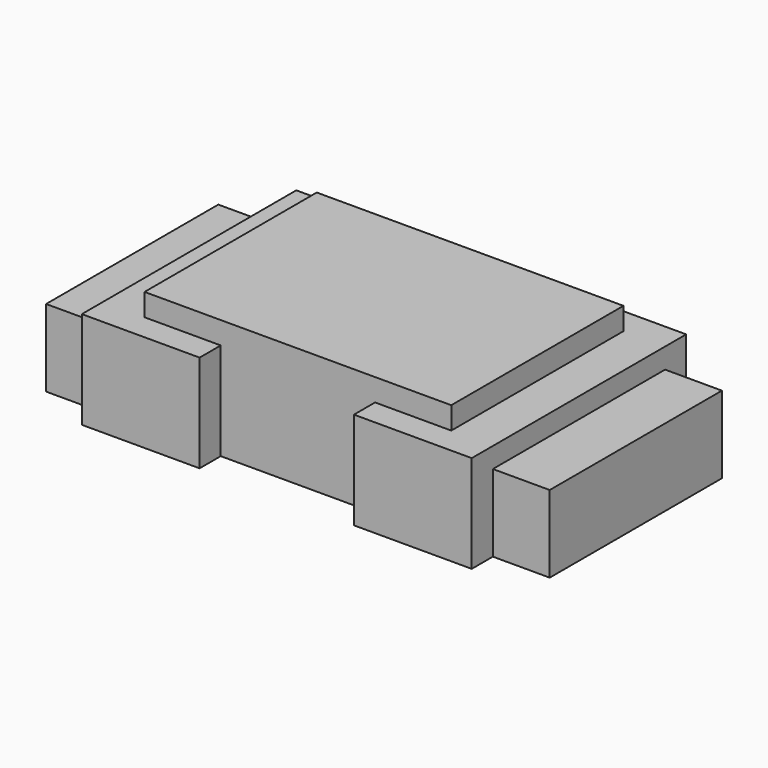
from build123d import *

# Parameters (mm, degrees)
F1_DEPTH   = 48.26
F2_W       = 35.56
F2_H       = 15.24
F3_DEPTH   = 25.4
F4_DEPTH   = 73.66
F5_START   = -73.66
F4_FACE_W  = 15.24
F4_FACE_H  = 25.4
F5_DEPTH   = 78.74
F6_DEPTH   = 22.86
F7_START   = 96.52
F6_FACE_W  = 15.24
F6_FACE_H  = 48.26
F7_DEPTH   = 73.66
F9_W       = 157.48
F9_H       = 67.31
F10_DEPTH  = 48.26
F11_W      = 35.56
F11_H      = 48.26
F12_DEPTH  = 16.51
F13_DEPTH  = 73.66
F14_START  = -73.66
F13_FACE_W = 16.51
F13_FACE_H = 48.26
F14_DEPTH  = 78.74
F18_DEPTH  = 12.7
F19_W      = 35.56
F19_H      = 134.62
F20_DEPTH  = 12.7
F22_DEPTH  = 13.97


with BuildPart() as f1:
    # F0 (on Top) → F1 (new body)
    with BuildSketch(Plane.XY):
        Polygon((0, 134.62), (0, 0), (314.96, 0), (314.96, 134.62), (35.56, 134.62), align=None)
    extrude(amount=F1_DEPTH)

    # F2 (on face) → F3 (join)
    with BuildSketch(Plane.XY.offset(48.26)):
        with Locations((17.78, 142.24)):
            Rectangle(F2_W, F2_H)
    extrude(amount=-F3_DEPTH)

    # F4 (add): a face of the model
    f4_faces = [f1.faces().sort_by_distance(p)[0] for p in [
        (35.56, 142.24, 35.56),
    ]]
    extrude(f4_faces, amount=F4_DEPTH)

    # F4_face (on face) → F5 (cut)
    with BuildSketch(Plane(origin=(109.22, 142.24, 35.56), x_dir=(0, 1, 0), z_dir=(1, 0, 0)).offset(F5_START)):
        Rectangle(F4_FACE_W, F4_FACE_H)
    extrude(amount=-F5_DEPTH, mode=Mode.SUBTRACT)

    # F6 (add): a face of the model
    f6_faces = [f1.faces().sort_by_distance(p)[0] for p in [
        (72.39, 142.24, 22.86),
    ]]
    extrude(f6_faces, amount=F6_DEPTH)

    # F6_face (on face) → F7 (join)
    with BuildSketch(Plane(origin=(109.22, 142.24, 24.13), x_dir=(0, 1, 0), z_dir=(1, 0, 0)).offset(F7_START)):
        Rectangle(F6_FACE_W, F6_FACE_H)
    extrude(amount=F7_DEPTH)


with BuildPart() as f10:
    # F9 (on Top) → F10 (new body)
    with BuildSketch(Plane.XY):
        with Locations((78.74, 33.655)):
            Rectangle(F9_W, F9_H)
    extrude(amount=F10_DEPTH)

    # F11 (on face) → F12 (join)
    with BuildSketch(Plane(origin=(0, 67.31, 0), x_dir=(-1, 0, 0), z_dir=(0, 1, 0))):
        with Locations((-139.7, 24.13)):
            Rectangle(F11_W, F11_H)
    extrude(amount=F12_DEPTH)

    # F13 (add): a face of the model
    f13_faces = [f10.faces().sort_by_distance(p)[0] for p in [
        (121.92, 75.565, 24.13),
    ]]
    extrude(f13_faces, amount=F13_DEPTH)

    # F13_face (on face) → F14 (cut)
    with BuildSketch(Plane(origin=(48.26, 75.565, 24.13), x_dir=(0, -1, 0), z_dir=(-1, 0, 0)).offset(F14_START)):
        Rectangle(F13_FACE_W, F13_FACE_H)
    extrude(amount=-F14_DEPTH, mode=Mode.SUBTRACT)

    # F15: F10 across plane


with BuildPart() as f10_1:
    add(f10.part)
    add(f10.part.mirror(Plane.XZ))

    # F16: F10 across plane


with BuildPart() as f10_2:
    add(f10_1.part)
    add(f10_1.part.mirror(Plane.YZ))

    # F17 (on face) → F18 (join)
    with BuildSketch(Plane.XY.offset(48.26)):
        Polygon((-121.92, 83.82), (-121.92, 67.31), (-121.92, -67.31), (-121.92, -83.82), (-48.26, -83.82), (-48.26, -67.31), (48.26, -67.31), (48.26, -83.82), (121.92, -83.82), (121.92, -67.31), (157.48, -67.31), (157.48, 67.31), (121.92, 67.31), (121.92, 83.82), (48.26, 83.82), (48.26, 67.31), (-48.26, 67.31), (-48.26, 83.82), align=None)
    extrude(amount=F18_DEPTH)

    # F19 (on face) → F20 (cut)
    with BuildSketch(Plane.XY.offset(60.96)):
        with Locations((139.7, 0)):
            Rectangle(F19_W, F19_H)
    extrude(amount=-F20_DEPTH, mode=Mode.SUBTRACT)

    # F21 (on face) → F22 (join)
    with BuildSketch(Plane.XY.offset(60.96)):
        Polygon((48.26, 67.31), (0, 67.31), (0, 0), (95.9053188562, 0), (95.9053188562, 67.31), align=None)
    extrude(amount=F22_DEPTH)

    # F23: F10 across plane


with BuildPart() as f10_3:
    add(f10_2.part)
    add(f10_2.part.mirror(Plane.XZ))

    # F24: F10 across plane


with BuildPart() as f10_4:
    add(f10_3.part)
    add(f10_3.part.mirror(Plane.YZ))


solid = f10_4.part
